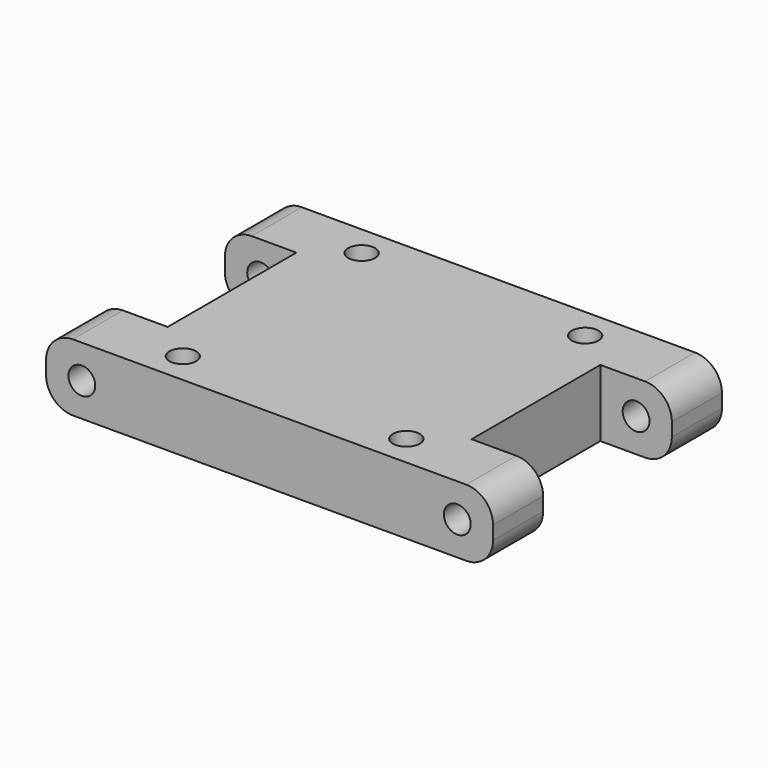
from build123d import *

# Parameters (mm, degrees)
F0_W     = 25
F0_H     = 32
F1_DEPTH = 3.75
F2_W     = 12.2002800852
F2_H     = 18
F3_DEPTH = 3.75
F4_R     = 1.5
F5_DEPTH = 32
F6_R     = 3
F7_R     = 1.5
F8_DEPTH = 3.75


with BuildPart() as f1:
    # F0 (on Top) → F1 (new body, symmetric)
    with BuildSketch(Plane.XY):
        with Locations((12.5, 16)):
            Rectangle(F0_W, F0_H)
    extrude(amount=F1_DEPTH, both=True)

    # F2 (on Top) → F3 (cut, symmetric)
    with BuildSketch(Plane.XY):
        with Locations((23.1001400426, 16)):
            Rectangle(F2_W, F2_H)
    extrude(amount=F3_DEPTH, both=True, mode=Mode.SUBTRACT)

    # F4 (on Front) → F5 (cut)
    with BuildSketch(Plane.XZ):
        with Locations((21, 0)):
            Circle(F4_R)
    extrude(amount=-F5_DEPTH, mode=Mode.SUBTRACT)

    # F6
    f6_edges = [f1.edges().sort_by_distance(p)[0] for p in [
        (25, 28.5, -3.75),
        (25, 28.5, 3.75),
        (25, 3.5, 3.75),
        (25, 3.5, -3.75),
    ]]
    fillet(f6_edges, radius=F6_R)

    # F7 (on Top) → F8 (cut, symmetric)
    with BuildSketch(Plane.XY):
        with Locations((12.5, 3.5)):
            Circle(F7_R)
        with Locations((12.5, 28.5)):
            Circle(F7_R)
    extrude(amount=F8_DEPTH, both=True, mode=Mode.SUBTRACT)

    # F9: F1 across plane


with BuildPart() as f1_1:
    add(f1.part)
    add(f1.part.mirror(Plane.YZ))


solid = f1_1.part
